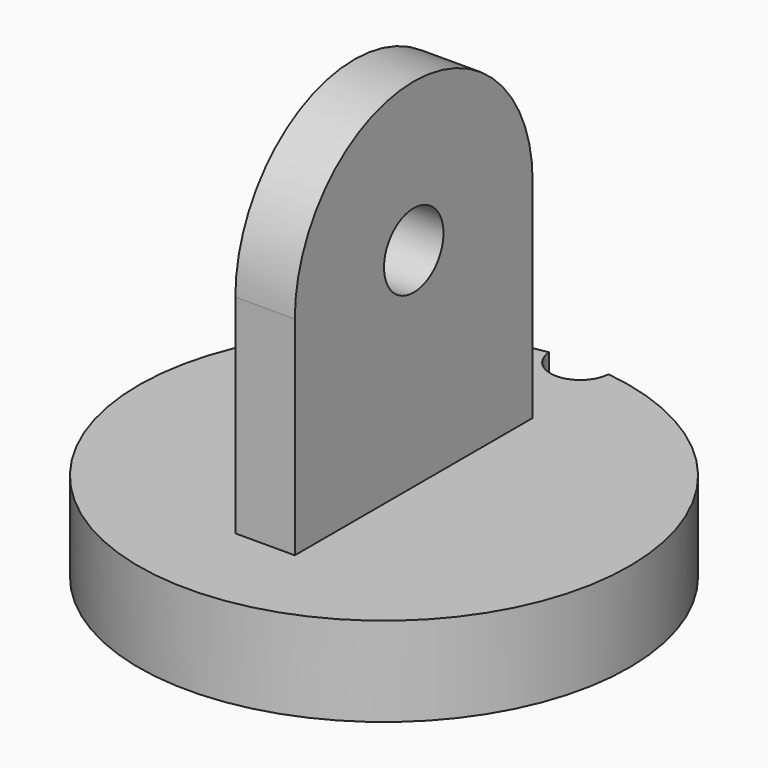
from build123d import *

# Parameters (mm, degrees)
SKETCH_R     = 16.5
PAD_DEPTH    = 6
SKETCH001_R  = 2
POCKET_DEPTH = 6.001
SKETCH002_R  = 2.5
PAD001_DEPTH = 2


with BuildPart() as part:
    # Sketch → Pad (new body)
    with BuildSketch(Plane.XY):
        Circle(SKETCH_R)
    extrude(amount=PAD_DEPTH)

    # Sketch001 (on Face3 of Pad) → Pocket (cut, through all)
    with BuildSketch(Plane.XY.offset(6)):
        with Locations((0, 16.5)):
            Circle(SKETCH001_R)
    extrude(amount=-POCKET_DEPTH, mode=Mode.SUBTRACT)

    # Sketch002 → Pad001 (join, symmetric)
    with BuildSketch(Plane.YZ):
        with BuildLine():
            Line((-10, 20), (-10, 0))
            Line((-10, 0), (10, 0))
            Line((10, 0), (10, 20))
            ThreePointArc((10, 20), (0, 30), (-10, 20))
        make_face()
        with Locations((0, 20)):
            Circle(SKETCH002_R, mode=Mode.SUBTRACT)
    extrude(amount=PAD001_DEPTH, both=True)


solid = part.part
